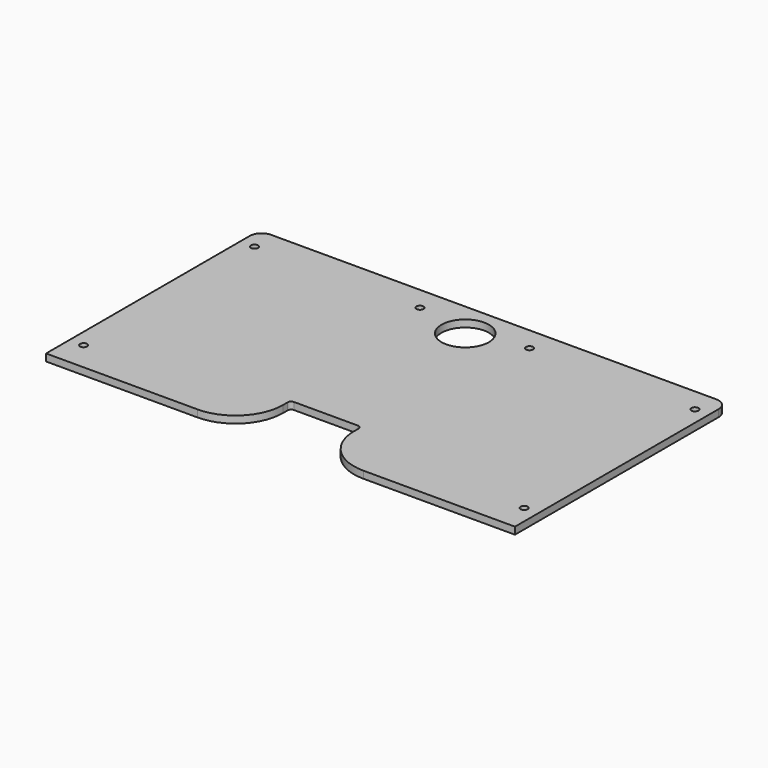
from build123d import *

# Parameters (mm, degrees)
SKETCH_W      = 198
SKETCH_H      = 112.5
PAD_DEPTH     = 3
FILLET_R      = 5
SKETCH001_R   = 1.5
SKETCH001_R_2 = 10
POCKET_DEPTH  = 3.001
FILLET001_R   = 20


with BuildPart() as part:
    # Sketch → Pad (new body)
    with BuildSketch(Plane.XY):
        Rectangle(SKETCH_W, SKETCH_H)
    extrude(amount=PAD_DEPTH)

    # Fillet
    fillet_edges = [part.edges().sort_by_distance(p)[0] for p in [
        (-99, 56.25, 1.5),
        (99, 56.25, 1.5),
    ]]
    fillet(fillet_edges, radius=FILLET_R)

    # Sketch001 (on Face5 of Fillet) → Pocket (cut, through all)
    with BuildSketch(Plane.XY.offset(3)):
        with Locations((-93, 46.25)):
            Circle(SKETCH001_R)
        with Locations((-93, -43.92)):
            Circle(SKETCH001_R)
        with Locations((93, 46.25)):
            Circle(SKETCH001_R)
        with Locations((93, -43.92)):
            Circle(SKETCH001_R)
        with Locations((-23.15, 46.25)):
            Circle(SKETCH001_R)
        with Locations((23.15, 46.25)):
            Circle(SKETCH001_R)
        with Locations((0, 41.25)):
            Circle(SKETCH001_R_2)
        with BuildLine():
            Line((-13.5, -32.25), (13.5, -32.25))
            ThreePointArc((15, -33.75), (14.56066, -32.68934), (13.5, -32.25))
            Line((15, -33.75), (15, -56.25))
            Line((15, -56.25), (-15, -56.25))
            Line((-15, -56.25), (-15, -33.75))
            ThreePointArc((-13.5, -32.25), (-14.56066, -32.68934), (-15, -33.75))
        make_face()
    extrude(amount=-POCKET_DEPTH, mode=Mode.SUBTRACT)

    # Fillet001
    fillet001_edges = [part.edges().sort_by_distance(p)[0] for p in [
        (-15, -56.25, 1.5),
        (15, -56.25, 1.5),
    ]]
    fillet(fillet001_edges, radius=FILLET001_R)


solid = part.part
